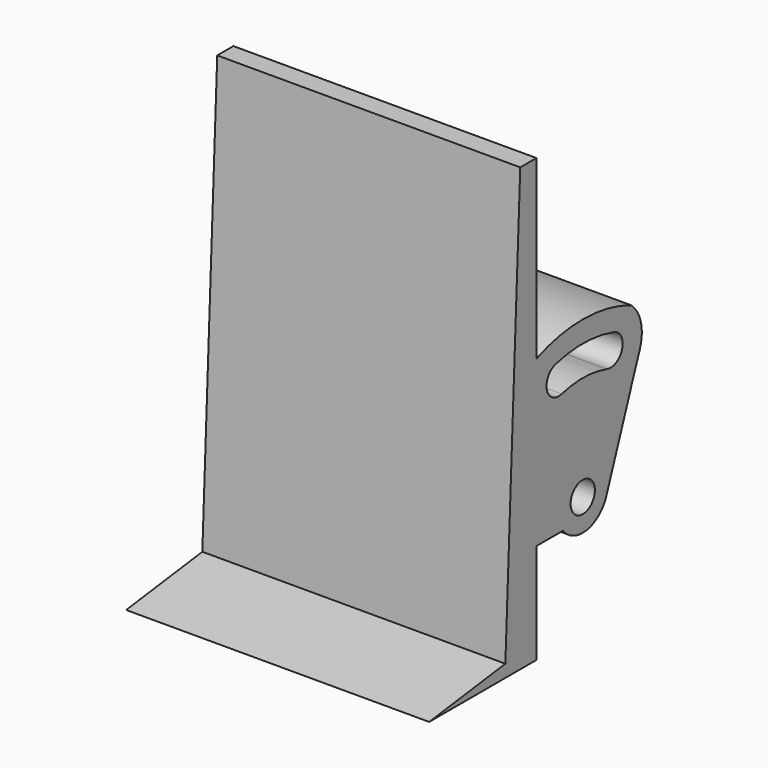
from build123d import *

# Parameters (mm, degrees)
F0_R     = 1.524
F1_DEPTH = 30.48


with BuildPart() as f1:
    # F0 (on Right) → F1 (new body)
    with BuildSketch(Plane.YZ):
        with BuildLine():
            Line((9.577657, 1.260484), (0, 0))
            Line((0, 0), (13.483933, 0))
            Line((13.483933, 0), (13.483933, 10.089966))
            Line((13.483933, 10.089966), (16.819245, 10.089966))
            ThreePointArc((16.819245, 10.089966), (19.740182, 8.919941), (22.233874, 10.83888))
            Line((22.233874, 10.83888), (22.320532, 11.070883))
            Line((22.320532, 11.070883), (25.4, 19.315274))
            Line((25.4, 19.315274), (25.4, 19.366832))
            Line((25.4, 19.366832), (26.482258, 22.212708))
            ThreePointArc((26.482258, 22.212708), (26.623188, 24.560453), (25.4, 26.569328))
            ThreePointArc((25.4, 26.569328), (19.452975, 27.79715), (13.483933, 26.681274))
            Line((13.483933, 26.681274), (13.483933, 44.45))
            Line((13.483933, 44.45), (12.7, 44.45))
            Line((12.7, 44.45), (11.451933, 44.45))
            Line((11.451933, 44.45), (9.577657, 1.260484))
        make_face()
        with Locations((19.305179, 12.065)):
            Circle(F0_R, mode=Mode.SUBTRACT)
        with BuildLine():
            ThreePointArc((15.895544, 25.219289), (19.580856, 25.651203), (23.245615, 25.070149))
            ThreePointArc((23.245615, 25.070149), (24.262218, 23.169709), (22.361779, 22.153106))
            ThreePointArc((22.361779, 22.153106), (19.519022, 22.603831), (16.660322, 22.268794))
            ThreePointArc((16.660322, 22.268794), (14.802685, 23.361652), (15.895544, 25.219289))
        make_face(mode=Mode.SUBTRACT)
    extrude(amount=F1_DEPTH)


solid = f1.part
